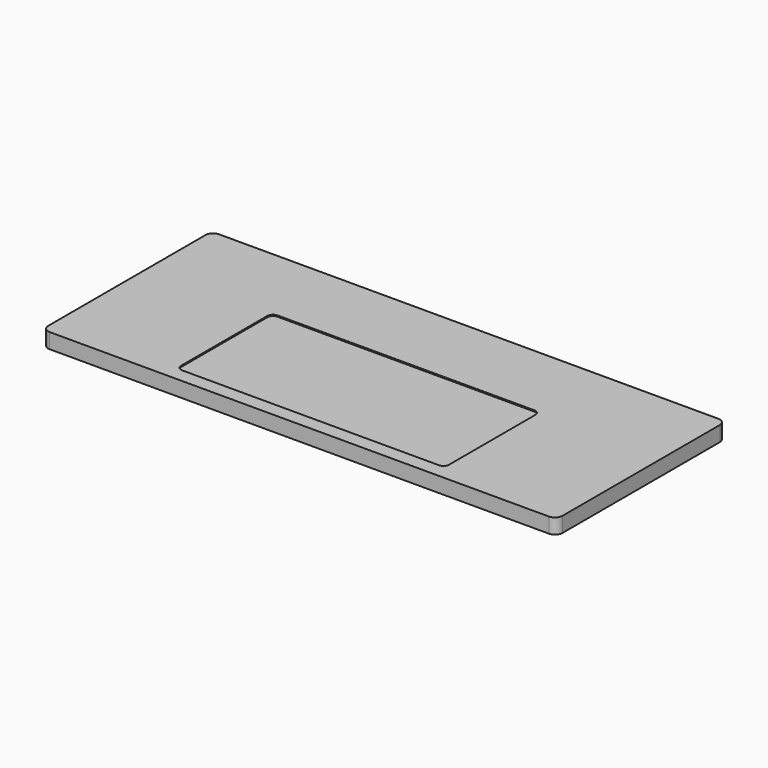
from build123d import *

# Parameters (mm, degrees)
F1_DEPTH = 50.8
F3_DEPTH = 4.00812


with BuildPart() as f1:
    # F0 (on Top) → F1 (new body)
    with BuildSketch(Plane.XY):
        with BuildLine():
            Line((838.2, 355.6), (-838.2, 355.6))
            ThreePointArc((-838.2, 355.6), (-856.160512, 348.160512), (-863.6, 330.2))
            Line((-863.6, 330.2), (-863.6, -330.2))
            ThreePointArc((-863.6, -330.2), (-856.160512, -348.160512), (-838.2, -355.6))
            Line((-838.2, -355.6), (838.2, -355.6))
            ThreePointArc((838.2, -355.6), (856.160512, -348.160512), (863.6, -330.2))
            Line((863.6, -330.2), (863.6, 330.2))
            ThreePointArc((863.6, 330.2), (856.160512, 348.160512), (838.2, 355.6))
        make_face()
    extrude(amount=F1_DEPTH)

    # F2 (on face) → F3 (cut)
    with BuildSketch(Plane.XY.offset(50.8)):
        with BuildLine():
            Line((430.9491, 91.709859), (-430.9491, 91.709859))
            ThreePointArc((-430.9491, 91.709859), (-444.419484, 86.130243), (-449.9991, 72.659859))
            Line((-449.9991, 72.659859), (-449.9991, -289.239341))
            ThreePointArc((-449.9991, -289.239341), (-444.419484, -302.709725), (-430.9491, -308.289341))
            Line((-430.9491, -308.289341), (430.9491, -308.289341))
            ThreePointArc((430.9491, -308.289341), (444.419484, -302.709725), (449.9991, -289.239341))
            Line((449.9991, -289.239341), (449.9991, 72.659859))
            ThreePointArc((449.9991, 72.659859), (444.419484, 86.130243), (430.9491, 91.709859))
        make_face()
    extrude(amount=-F3_DEPTH, mode=Mode.SUBTRACT)


solid = f1.part
